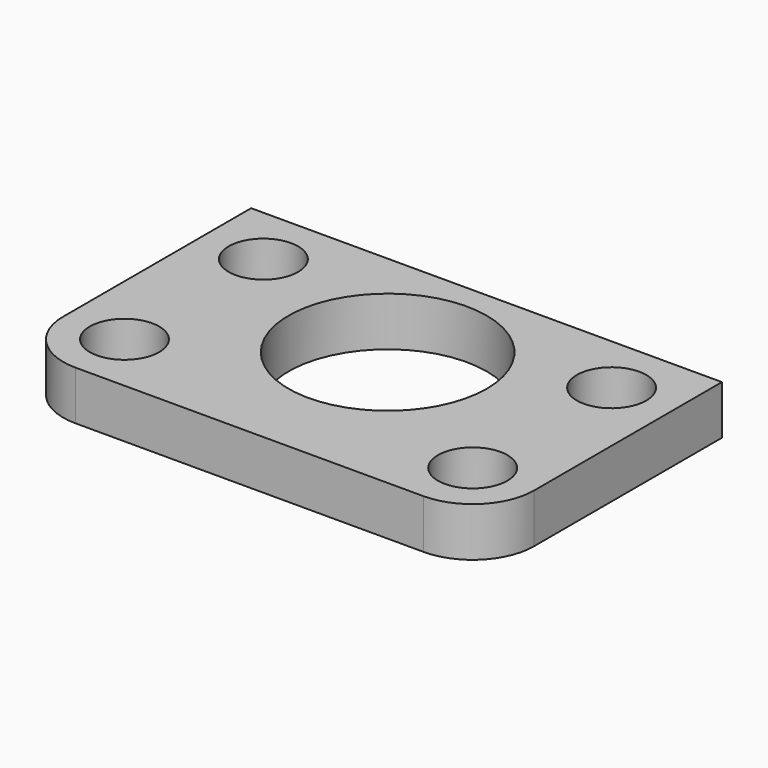
from build123d import *

# Parameters (mm, degrees)
F0_W     = 30.477764
F0_H     = 19.177
F0_R     = 2.2479
F0_R_2   = 6.4135
F1_DEPTH = 3.175
F2_R     = 3.96875


with BuildPart() as f1:
    # F0 (on Top) → F1 (new body)
    with BuildSketch(Plane.XY):
        with Locations((15.238882, -9.5885)):
            Rectangle(F0_W, F0_H)
        with Locations((3.96875, -15.20825)):
            Circle(F0_R, mode=Mode.SUBTRACT)
        with Locations((26.509014, -15.20825)):
            Circle(F0_R, mode=Mode.SUBTRACT)
        with Locations((3.96875, -3.96875)):
            Circle(F0_R, mode=Mode.SUBTRACT)
        with Locations((15.238882, -8.001)):
            Circle(F0_R_2, mode=Mode.SUBTRACT)
        with Locations((26.509014, -3.96875)):
            Circle(F0_R, mode=Mode.SUBTRACT)
    extrude(amount=F1_DEPTH)

    # F2
    f2_edges = [f1.edges().sort_by_distance(p)[0] for p in [
        (0, -19.177, 1.5875),
        (30.477764, -19.177, 1.5875),
    ]]
    fillet(f2_edges, radius=F2_R)


solid = f1.part
